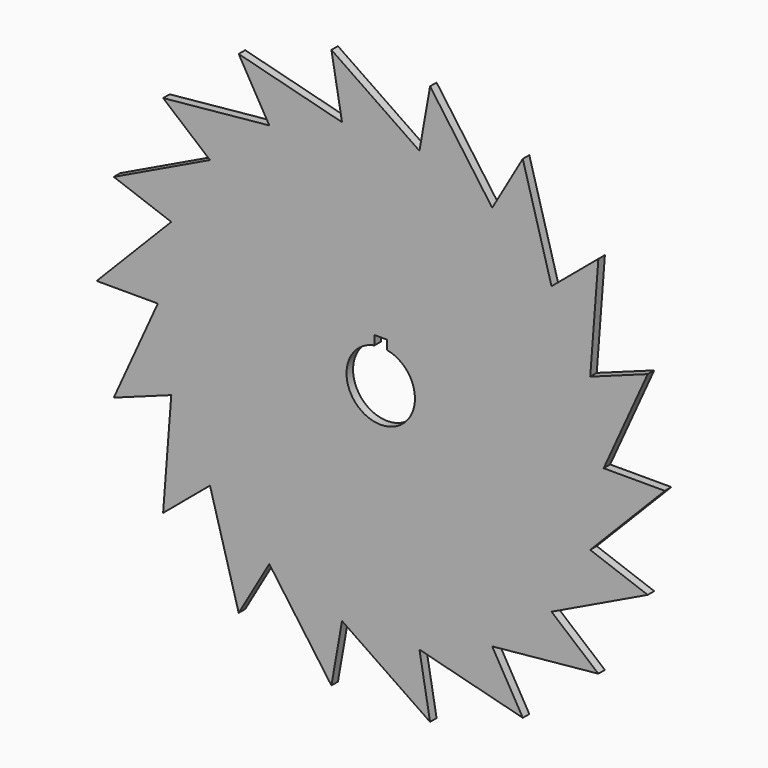
from build123d import *

# Parameters (mm, degrees)
F1_DEPTH = 2
F3_DEPTH = 25


with BuildPart() as f1:
    # F0 (on Front) → F1 (new body)
    with BuildSketch(Plane.XZ):
        Polygon((54.649255, 0), (65.448891, 23.821448), (51.353502, 18.691146), (53.354425, 44.769678), (41.863758, 35.127864), (34.824628, 60.318025), (27.324628, 47.327644), (12.094466, 68.591127), (9.489744, 53.819011), (-12.094466, 68.591127), (-9.489744, 53.819011), (-34.824628, 60.318025), (-27.324628, 47.327644), (-53.354425, 44.769678), (-41.863758, 35.127864), (-65.448891, 23.821448), (-51.353502, 18.691146), (-69.649255, 0), (-54.649255, 0), (-65.448891, -23.821448), (-51.353502, -18.691146), (-53.354425, -44.769678), (-41.863758, -35.127864), (-34.824628, -60.318025), (-27.324628, -47.327644), (-12.094466, -68.591127), (-9.489744, -53.819011), (12.094466, -68.591127), (9.489744, -53.819011), (34.824628, -60.318025), (27.324628, -47.327644), (53.354425, -44.769678), (41.863758, -35.127864), (65.448891, -23.821448), (51.353502, -18.691146), (69.649255, 0), align=None)
    extrude(amount=F1_DEPTH)

    # F2 (on face) → F3 (cut)
    with BuildSketch(Plane.XZ.offset(2)):
        with BuildLine():
            Line((-1.514033, 10.478157), (-1.514033, 8.250507))
            ThreePointArc((-1.514033, 8.250507), (0, -8.388275), (1.514033, 8.250507))
            Line((1.514033, 8.250507), (1.514033, 10.478157))
            Line((1.514033, 10.478157), (-1.514033, 10.478157))
        make_face()
    extrude(amount=-F3_DEPTH, mode=Mode.SUBTRACT)


solid = f1.part
